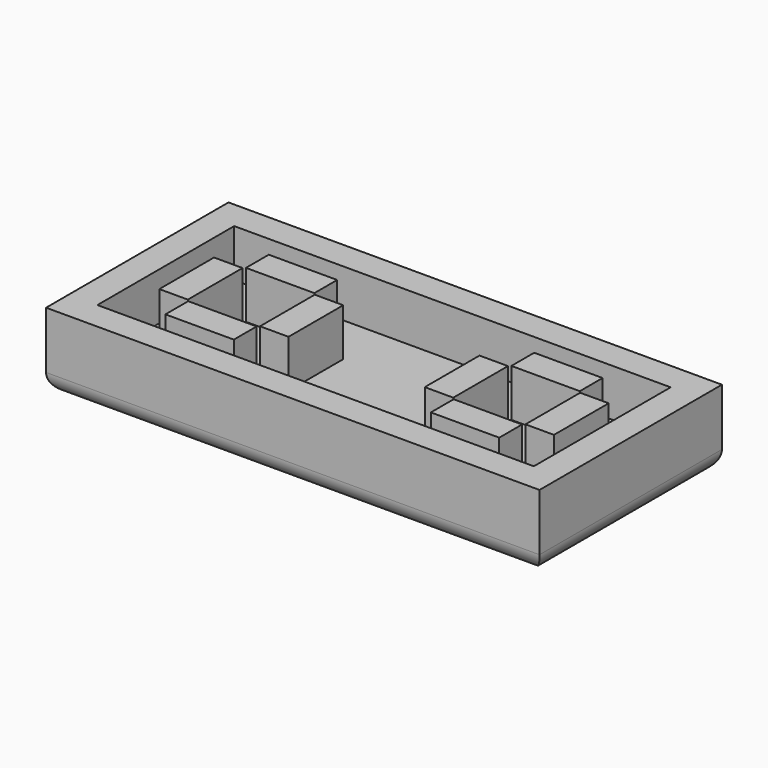
from build123d import *

# Parameters (mm, degrees)
SKETCH_W      = 12.985
SKETCH_H      = 12
PAD_DEPTH     = 1.5
PAD001_DEPTH  = 2.5
SKETCH002_W   = 3.6
SKETCH002_H   = 1.5
SKETCH002_W_2 = 1.5
SKETCH002_H_2 = 3.6
PAD002_DEPTH  = 4
FILLET_R      = 1


with BuildPart() as part:
    # Sketch → Pad (new body)
    with BuildSketch(Plane.XY):
        with Locations((-6.4925, 0)):
            Rectangle(SKETCH_W, SKETCH_H)
    pad = extrude(amount=PAD_DEPTH)

    # Sketch001 → Pad001 (join)
    with BuildSketch(Plane.XY.offset(1.5)):
        Polygon((-12.985, 6), (0, 6), (0, 4.5), (-11.485, 4.5), (-11.485, -4.5), (0, -4.5), (0, -6), (-12.985, -6), align=None)
    pad001 = extrude(amount=PAD001_DEPTH)

    # Sketch002 → Pad002 (join)
    with BuildSketch(Plane.XY):
        with Locations((-6.985, 2.65)):
            Rectangle(SKETCH002_W, SKETCH002_H)
        with Locations((-6.985, -2.65)):
            Rectangle(SKETCH002_W, SKETCH002_H)
        with Locations((-9.635, 0)):
            Rectangle(SKETCH002_W_2, SKETCH002_H_2)
        with Locations((-4.335, 0)):
            Rectangle(SKETCH002_W_2, SKETCH002_H_2)
    pad002 = extrude(amount=PAD002_DEPTH)

    # Mirrored: Pad across Sketch V_Axis
    add(pad.mirror(Plane(origin=(0, 0, 0), x_dir=(0, 0, 1), z_dir=(1, 0, 0))))

    # Mirrored001: Pad002 across Sketch002 V_Axis
    add(pad002.mirror(Plane(origin=(0, 0, 0), x_dir=(0, 0, 1), z_dir=(1, 0, 0))))

    # Mirrored002: Pad001 across Sketch001 V_Axis
    add(pad001.mirror(Plane(origin=(0, 0, 1.5), x_dir=(0, 0, 1), z_dir=(1, 0, 0))))

    # Fillet
    fillet_edges = [part.edges().sort_by_distance(p)[0] for p in [
        (12.985, 0, 0),
        (0, -6, 0),
        (-12.985, 0, 0),
        (0, 6, 0),
    ]]
    fillet(fillet_edges, radius=FILLET_R)


solid = part.part
